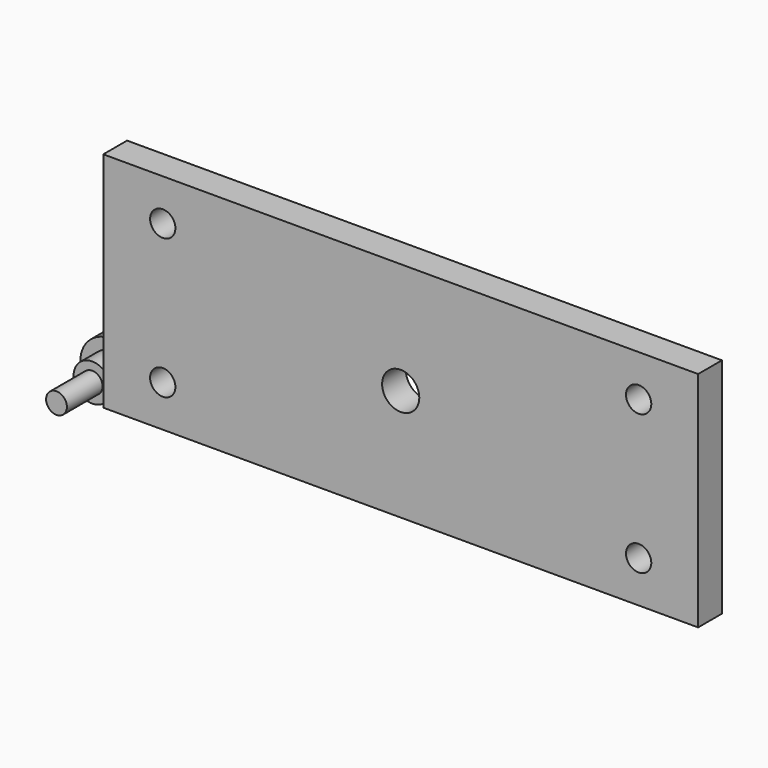
from build123d import *

# Parameters (mm, degrees)
F0_W     = 400
F0_H     = 150
F0_R     = 12.5
F1_DEPTH = 20
F2_W     = 7
F2_H     = 30
F4_D     = 9
F4_DEPTH = 20.001
F5_D     = 9
F6_D     = 17
F6_DEPTH = 35
F6_TIP   = 5.1073152617


with BuildPart() as f1:
    # F0 (on Front) → F1 (new body)
    with BuildSketch(Plane.XZ):
        with Locations((200, 75)):
            Rectangle(F0_W, F0_H)
        with Locations((200, 75)):
            Circle(F0_R, mode=Mode.SUBTRACT)
    extrude(amount=F1_DEPTH)

    # F6
    with Locations(Plane(origin=(0, 0, 0), x_dir=(1, 0, 0), z_dir=(0, 1, 0))):
        with Locations((360, -122), (360, -28), (40, -122), (40, -28)):
            Hole(F6_D / 2, depth=F6_DEPTH)
            with Locations((0, 0, -(F6_DEPTH + F6_TIP / 2))):  # 118° drill point
                Cone(0, F6_D / 2, F6_TIP, mode=Mode.SUBTRACT)


with BuildPart() as f3:
    # F2 (on Top) → F3 (revolve)
    with BuildSketch(Plane.XY):
        Polygon((-22.451127246, -1.2559221685), (-22.451127246, 13.7440778315), (-34.951127246, 13.7440778315), (-34.951127246, -1.2559221685), (-29.451127246, -1.2559221685), align=None)
        Polygon((-34.951127246, 13.7440778315), (-22.451127246, 13.7440778315), (-22.451127246, 30.7440778315), (-32.451127246, 30.7440778315), (-32.451127246, 58.7440778315), (-42.451127246, 58.7440778315), (-42.451127246, 13.7440778315), align=None)
        with Locations((-25.951127246, -16.2559221685)):
            Rectangle(F2_W, F2_H)
    revolve(axis=Axis((-22.451127246, 22.2440778315, 0), (0, 1, 0)))

    # F4 (through all, one way)
    with BuildSketch(Plane(origin=(0, 0, 0), x_dir=(1, 0, 0), z_dir=(0, 0, -1))):
        with Locations((-22.451127246, -43.7440778315)):
            Circle(F4_D / 2)
    extrude(amount=-F4_DEPTH, mode=Mode.SUBTRACT)

    # F5 (through all)
    with Locations(Plane.XY):
        with Locations((-22.451127246, 43.7440778315)):
            Hole(F5_D / 2)


solid = Compound([f1.part, f3.part])
